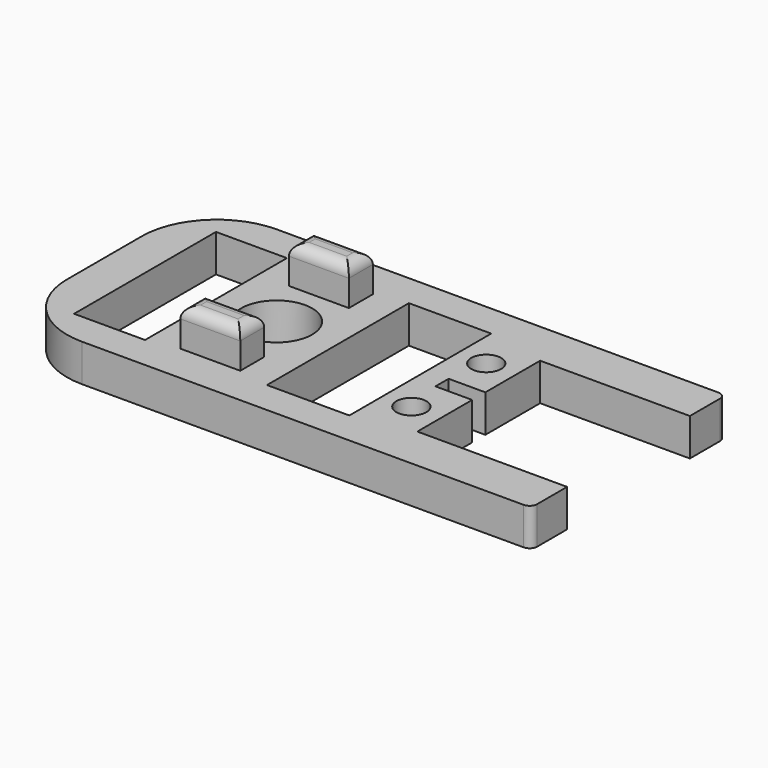
from build123d import *

# Parameters (mm, degrees)
SKETCH_R      = 4.75
PAD_DEPTH     = 5
FILLET_R      = 10
FILLET001_R   = 1
SKETCH001_R   = 2
SKETCH001_W   = 9.475223
SKETCH001_H   = 23.68809
SKETCH001_W_2 = 11
SKETCH001_W_3 = 4.903309
SKETCH001_H_2 = 2.2
POCKET_DEPTH  = 5
SKETCH002_W   = 8
SKETCH002_H   = 4
PAD001_DEPTH  = 5
FILLET002_R   = 1.5


with BuildPart() as part:
    # Sketch → Pad (new body)
    with BuildSketch(Plane.XY):
        Polygon((30.887989, 10.25), (30.887989, 16.25), (-39.112011, 16.25), (-39.112011, -16.25), (30.887989, -16.25), (30.887989, -10.25), (10.887989, -10.25), (10.887989, 10.25), align=None)
        with Locations((-16.112011, 0)):
            Circle(SKETCH_R, mode=Mode.SUBTRACT)
    extrude(amount=PAD_DEPTH)

    # Fillet
    fillet_edges = [part.edges().sort_by_distance(p)[0] for p in [
        (-39.112011, -16.25, 2.5),
        (-39.112011, 16.25, 2.5),
    ]]
    fillet(fillet_edges, radius=FILLET_R)

    # Fillet001
    fillet001_edges = [part.edges().sort_by_distance(p)[0] for p in [
        (30.887989, -16.25, 2.5),
        (30.887989, 16.25, 2.5),
    ]]
    fillet(fillet001_edges, radius=FILLET001_R)

    # Sketch001 (on Face5 of Fillet001) → Pocket (cut)
    with BuildSketch(Plane.XY.offset(5)):
        with Locations((6.887989, 6.25)):
            Circle(SKETCH001_R)
        with Locations((6.887989, -6.25)):
            Circle(SKETCH001_R)
        with Locations((-28.9485835, 0)):
            Rectangle(SKETCH001_W, SKETCH001_H)
        with Locations((-2.4204911845, 0)):
            Rectangle(SKETCH001_W_2, SKETCH001_H)
        with Locations((8.4363345, 0)):
            Rectangle(SKETCH001_W_3, SKETCH001_H_2)
    extrude(amount=-POCKET_DEPTH, mode=Mode.SUBTRACT)

    # Sketch002 (on Face5 of Pocket) → Pad001 (join)
    with BuildSketch(Plane.XY.offset(5)):
        with Locations((-16.112011, 9.067142847)):
            Rectangle(SKETCH002_W, SKETCH002_H)
        with Locations((-16.112011, -9.067142847)):
            Rectangle(SKETCH002_W, SKETCH002_H)
    extrude(amount=PAD001_DEPTH)

    # Fillet002
    fillet002_edges = [part.edges().sort_by_distance(p)[0] for p in [
        (-16.112011, 11.067143, 10),
        (-12.112011, 9.067143, 10),
        (-16.112011, 7.067143, 10),
        (-20.112011, 9.067143, 10),
        (-16.112011, -7.067143, 10),
        (-12.112011, -9.067143, 10),
        (-16.112011, -11.067143, 10),
        (-20.112011, -9.067143, 10),
    ]]
    fillet(fillet002_edges, radius=FILLET002_R)


solid = part.part
